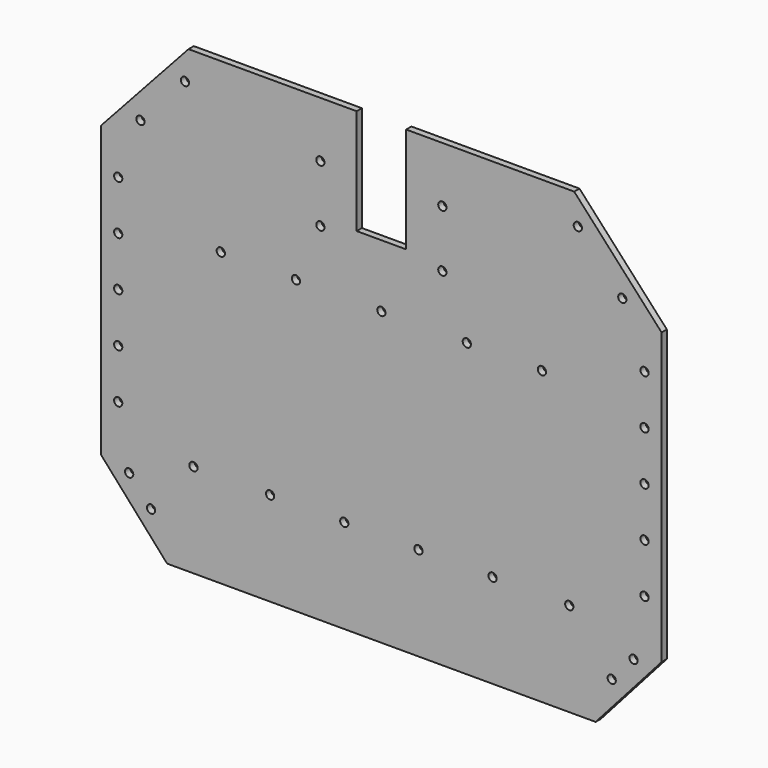
from build123d import *

# Parameters (mm, degrees)
F0_R     = 2.5
F1_DEPTH = 4


with BuildPart() as f1:
    # F0 (on Front) → F1 (new body)
    with BuildSketch(Plane.XZ):
        Polygon((15, -6), (-15, -6), (-15, 58), (-117, 58), (-170, 0), (-170, -6), (-170, -176), (-130, -221), (130, -221), (170, -176), (170, -6), (170, 0), (117, 58), (15, 58), align=None)
        with Locations((-139.720007, -195.002296)):
            Circle(F0_R, mode=Mode.SUBTRACT)
        with Locations((-153.007283, -180.05411)):
            Circle(F0_R, mode=Mode.SUBTRACT)
        with Locations((-114, -164)):
            Circle(F0_R, mode=Mode.SUBTRACT)
        with Locations((-67.5, -164)):
            Circle(F0_R, mode=Mode.SUBTRACT)
        with Locations((-22.5, -164)):
            Circle(F0_R, mode=Mode.SUBTRACT)
        with Locations((-159.650922, -144.262848)):
            Circle(F0_R, mode=Mode.SUBTRACT)
        with Locations((-159.650922, -114.262848)):
            Circle(F0_R, mode=Mode.SUBTRACT)
        with Locations((-159.650922, -84.262848)):
            Circle(F0_R, mode=Mode.SUBTRACT)
        with Locations((22.5, -164)):
            Circle(F0_R, mode=Mode.SUBTRACT)
        with Locations((67.5, -164)):
            Circle(F0_R, mode=Mode.SUBTRACT)
        with Locations((139.720007, -195.002296)):
            Circle(F0_R, mode=Mode.SUBTRACT)
        with Locations((114, -164)):
            Circle(F0_R, mode=Mode.SUBTRACT)
        with Locations((153.007283, -180.05411)):
            Circle(F0_R, mode=Mode.SUBTRACT)
        with Locations((159.650922, -144.262848)):
            Circle(F0_R, mode=Mode.SUBTRACT)
        with Locations((159.650922, -114.262848)):
            Circle(F0_R, mode=Mode.SUBTRACT)
        with Locations((159.650922, -84.262848)):
            Circle(F0_R, mode=Mode.SUBTRACT)
        with Locations((-159.650922, -54.262848)):
            Circle(F0_R, mode=Mode.SUBTRACT)
        with Locations((-159.650922, -24.262848)):
            Circle(F0_R, mode=Mode.SUBTRACT)
        with Locations((-97.406514, -44)):
            Circle(F0_R, mode=Mode.SUBTRACT)
        with Locations((-51.841948, -44)):
            Circle(F0_R, mode=Mode.SUBTRACT)
        with Locations((-146.1595, 10.501349)):
            Circle(F0_R, mode=Mode.SUBTRACT)
        with Locations((-119.176656, 40.029745)):
            Circle(F0_R, mode=Mode.SUBTRACT)
        with Locations((-37, -10.429734)):
            Circle(F0_R, mode=Mode.SUBTRACT)
        with Locations((-37, 24.238967)):
            Circle(F0_R, mode=Mode.SUBTRACT)
        with Locations((0, -44)):
            Circle(F0_R, mode=Mode.SUBTRACT)
        with Locations((51.841948, -44)):
            Circle(F0_R, mode=Mode.SUBTRACT)
        with Locations((159.650922, -54.262848)):
            Circle(F0_R, mode=Mode.SUBTRACT)
        with Locations((97.406514, -44)):
            Circle(F0_R, mode=Mode.SUBTRACT)
        with Locations((159.650922, -24.262848)):
            Circle(F0_R, mode=Mode.SUBTRACT)
        with Locations((37, -10.429734)):
            Circle(F0_R, mode=Mode.SUBTRACT)
        with Locations((37, 24.238967)):
            Circle(F0_R, mode=Mode.SUBTRACT)
        with Locations((146.1595, 10.501349)):
            Circle(F0_R, mode=Mode.SUBTRACT)
        with Locations((119.176656, 40.029745)):
            Circle(F0_R, mode=Mode.SUBTRACT)
    extrude(amount=F1_DEPTH)


solid = f1.part
